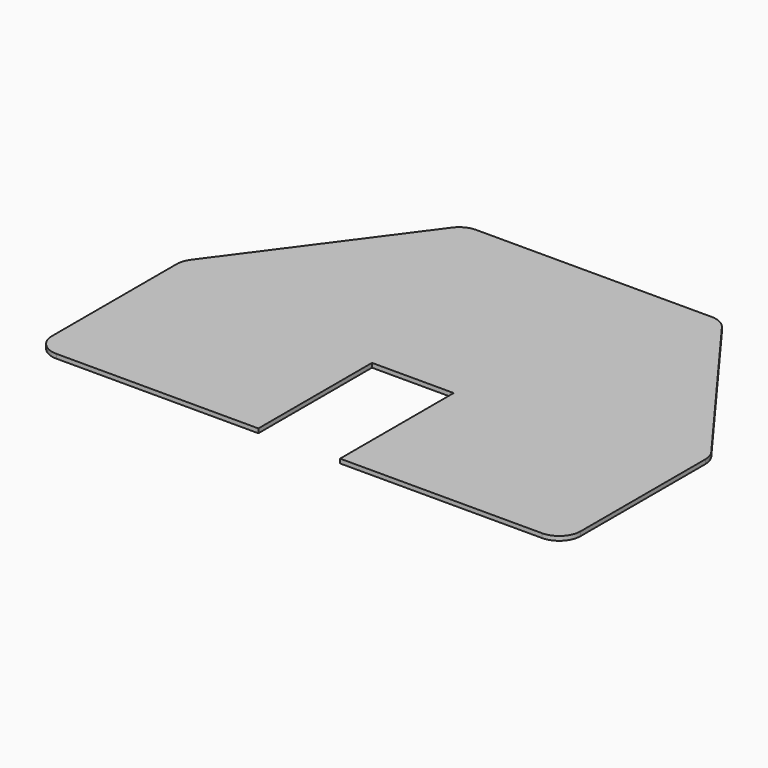
from build123d import *

# Parameters (mm, degrees)
F1_DEPTH = 1
F2_R     = 5


with BuildPart() as f1:
    # F0 (on Top) → F1 (new body)
    with BuildSketch(Plane.XY):
        Polygon((-30, 64.5), (-61.7, 21.5), (0, 21.5), (0, 64.5), align=None)
        Polygon((0, 64.5), (0, 21.5), (61.7, 21.5), (30, 64.5), align=None)
        Polygon((0, 21.5), (-61.7, 21.5), (-61.7, -21.5), (-9.537501, -21.5), (-9.537501, 11.649337), (9.537501, 11.649337), (9.537501, -21.5), (61.7, -21.5), (61.7, 21.5), align=None)
    extrude(amount=F1_DEPTH)

    # F2
    f2_edges = [f1.edges().sort_by_distance(p)[0] for p in [
        (-30, 64.5, 0.5),
        (-61.7, 21.5, 0.5),
        (30, 64.5, 0.5),
        (61.7, 21.5, 0.5),
        (61.7, -21.5, 0.5),
        (-61.7, -21.5, 0.5),
    ]]
    fillet(f2_edges, radius=F2_R)


solid = f1.part
